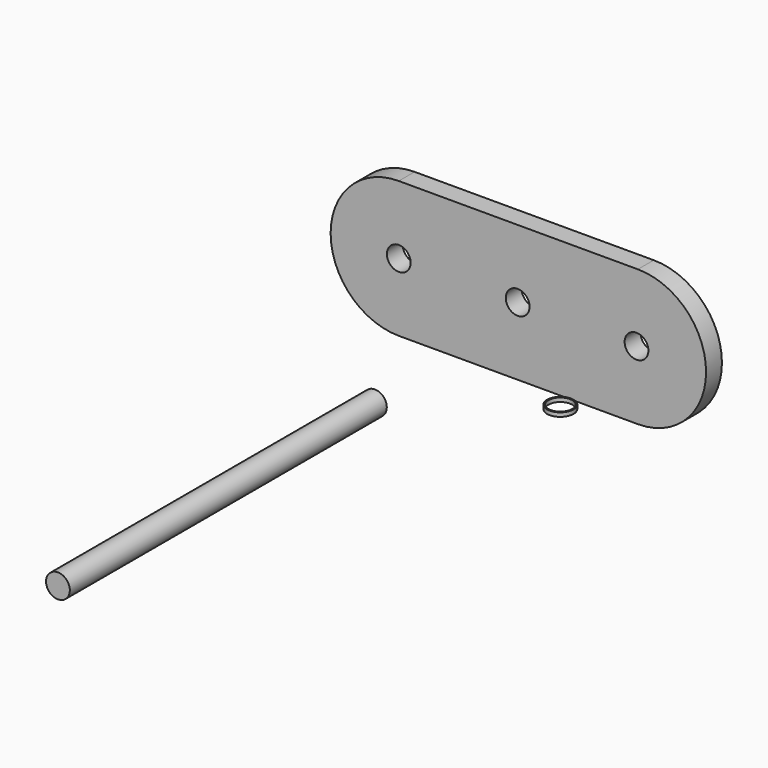
from build123d import *

# Parameters (mm, degrees)
F0_R      = 3.81
F1_DEPTH  = 6.35
F2_R      = 3.81
F3_DEPTH  = 127
F12_R     = 4.248258
F12_R_2   = 3.81
F13_DEPTH = 1.27


with BuildPart() as f1:
    # F0 (on Front) → F1 (new body)
    with BuildSketch(Plane.XZ):
        with BuildLine():
            Line((-38.322541, -21.848525), (38.322541, -21.848525))
            ThreePointArc((38.322541, -21.848525), (60.171066, 0), (38.322541, 21.848525))
            Line((38.322541, 21.848525), (-38.322541, 21.848525))
            ThreePointArc((-38.322541, 21.848525), (-60.171066, 0), (-38.322541, -21.848525))
        make_face()
        with Locations((-38.322541, 0)):
            Circle(F0_R, mode=Mode.SUBTRACT)
        with Locations((-0.222541, 0)):
            Circle(F0_R, mode=Mode.SUBTRACT)
        with Locations((37.877459, 0)):
            Circle(F0_R, mode=Mode.SUBTRACT)
    extrude(amount=F1_DEPTH)


with BuildPart() as f3:
    # F2 (on Front) → F3 (new body)
    with BuildSketch(Plane.XZ):
        with Locations((-51.05808, -47.492567)):
            Circle(F2_R)
    extrude(amount=F3_DEPTH)


with BuildPart() as f4_1:
    # F4: copy of F3
    add(f3.part)


with BuildPart() as f6_1:
    # F6: copy of F3
    add(f3.part)


with BuildPart() as f8_1:
    # F8: copy of F3
    add(f3.part.moved(Location((50.16212, 0, 0))))


with BuildPart() as f9_1:
    # F9: copy of F8_1
    add(f8_1.part.moved(Location((42.6117, 0, 0))))


with BuildPart() as f13:
    # F12 (on Top) → F13 (new body)
    with BuildSketch(Plane.XY):
        with Locations((44.260517, -44.861678)):
            Circle(F12_R)
        with Locations((44.260517, -44.861678)):
            Circle(F12_R_2, mode=Mode.SUBTRACT)
    extrude(amount=F13_DEPTH)


solid = Compound([f1.part, f3.part, f13.part])
